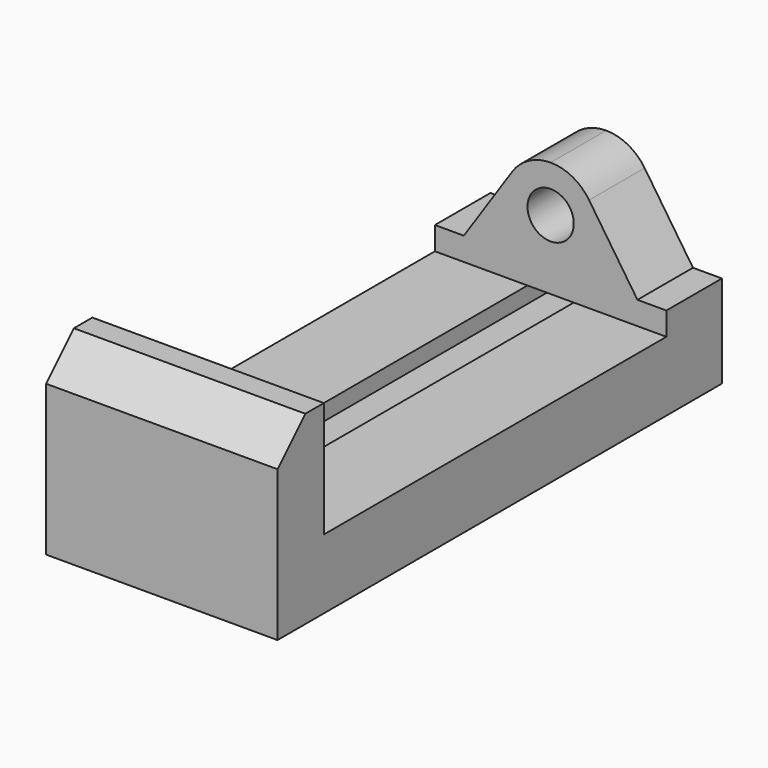
from build123d import *

# Parameters (mm, degrees)
F1_DEPTH = 63.5
F2_R     = 12.7
F3_DEPTH = 50.8
F4_DEPTH = 273.05
F5_SIZE2 = 19.05
F5_SIZE  = 19.05


with BuildPart() as f1:
    # F0 (on Right) → F1 (new body, symmetric)
    with BuildSketch(Plane.YZ):
        Polygon((0, 101.6), (0, 0), (304.8, 0), (304.8, 101.6), (266.7, 101.6), (266.7, 38.1), (31.75, 38.1), (31.75, 101.6), align=None)
    extrude(amount=F1_DEPTH, both=True)

    # F2 (on face) → F3 (cut)
    with BuildSketch(Plane(origin=(0, 304.8, 0), x_dir=(-1, 0, 0), z_dir=(0, 1, 0))):
        with BuildLine():
            Line((-63.5, 101.6), (-63.5, 50.8))
            Line((-63.5, 50.8), (-47.625, 50.8))
            Line((-47.625, 50.8), (-21.093426, 90.350173))
            ThreePointArc((-21.093426, 90.350173), (-11.952941, 98.611765), (0, 101.6))
            Line((0, 101.6), (-63.5, 101.6))
        make_face()
        with BuildLine():
            Line((63.5, 101.6), (0, 101.6))
            ThreePointArc((0, 101.6), (11.952941, 98.611765), (21.093426, 90.350173))
            Line((21.093426, 90.350173), (47.625, 50.8))
            Line((47.625, 50.8), (63.5, 50.8))
            Line((63.5, 50.8), (63.5, 101.6))
        make_face()
        with Locations((0, 76.2)):
            Circle(F2_R)
    extrude(amount=-F3_DEPTH, mode=Mode.SUBTRACT)

    # F2 (on face) → F4 (cut, through all)
    with BuildSketch(Plane(origin=(0, 304.8, 0), x_dir=(-1, 0, 0), z_dir=(0, 1, 0))):
        Polygon((-12.7, 16.51), (-12.7, 0), (12.7, 0), (12.7, 16.51), (31.75, 16.51), (31.75, 29.21), (12.7, 29.21), (12.7, 38.1), (-12.7, 38.1), (-12.7, 29.21), (-31.75, 29.21), (-31.75, 16.51), align=None)
    extrude(amount=-F4_DEPTH, mode=Mode.SUBTRACT)

    # F5
    f5_edges = [f1.edges().sort_by_distance(p)[0] for p in [
        (0, 0, 101.6),
    ]]
    chamfer(f5_edges, length=F5_SIZE, length2=F5_SIZE2)


solid = f1.part
